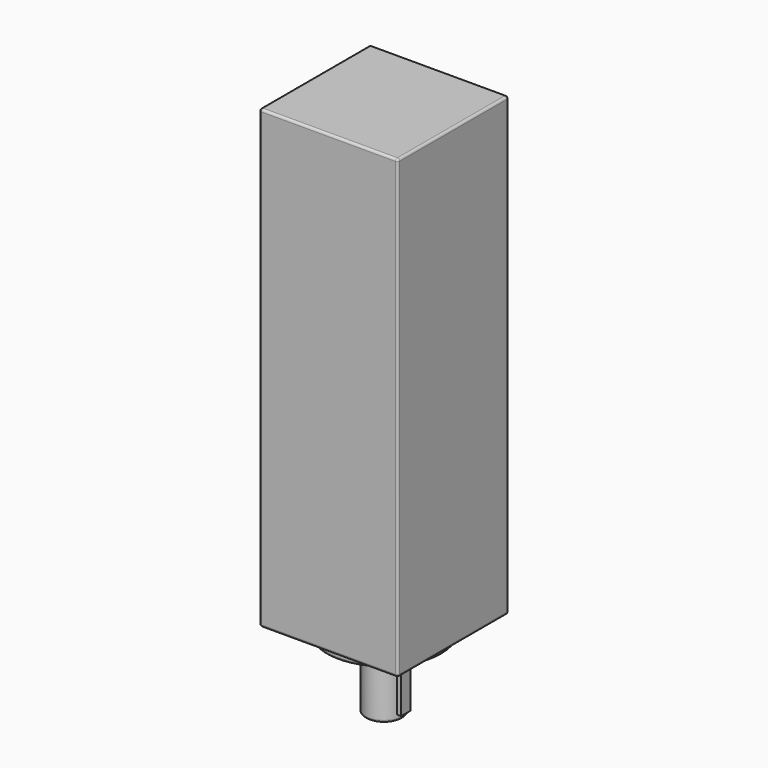
from build123d import *

# Parameters (mm, degrees)
F0_W      = 60
F0_H      = 60
F1_DEPTH  = 202.5
F2_R      = 8
F3_DEPTH  = 30
F5_D      = 5
F5_DEPTH  = 12
F5_TIP    = 1.5021515476
F7_W      = 3
F7_H      = 5
F8_DEPTH  = 25
F9_W      = 66.6528567672
F9_H      = 63.3320808411
F9_W_2    = 60
F9_H_2    = 60
F9_R      = 25
F10_DEPTH = 5
F11_R     = 1


with BuildPart() as f1:
    # F0 (on Top) → F1 (new body)
    with BuildSketch(Plane.XY):
        Rectangle(F0_W, F0_H)
    extrude(amount=F1_DEPTH)

    # F2 (on face) → F3 (join)
    with BuildSketch(Plane(origin=(0, 0, 0), x_dir=(1, 0, 0), z_dir=(0, 0, -1))):
        Circle(F2_R)
    extrude(amount=F3_DEPTH)

    # F5
    with Locations(Plane(origin=(0, 0, -30), x_dir=(1, 0, 0), z_dir=(0, 0, -1))):
        with Locations((0, 0)):
            Hole(F5_D / 2, depth=F5_DEPTH)
            with Locations((0, 0, -(F5_DEPTH + F5_TIP / 2))):  # 118° drill point
                Cone(0, F5_D / 2, F5_TIP, mode=Mode.SUBTRACT)

    # F7 (on offset) → F8 (join)
    with BuildSketch(Plane(origin=(0, 0, -27.5), x_dir=(1, 0, 0), z_dir=(0, 0, -1))):
        with Locations((7.9153832048, 0)):
            Rectangle(F7_W, F7_H)
    extrude(amount=-F8_DEPTH)

    # F9 (on face) → F10 (cut)
    with BuildSketch(Plane(origin=(0, 0, 0), x_dir=(1, 0, 0), z_dir=(0, 0, -1))):
        Rectangle(F9_W, F9_H)
        Rectangle(F9_W_2, F9_H_2, mode=Mode.SUBTRACT)
        Rectangle(F9_W_2, F9_H_2)
        Circle(F9_R, mode=Mode.SUBTRACT)
    extrude(amount=-F10_DEPTH, mode=Mode.SUBTRACT)

    # F11
    f11_edges = [f1.edges().sort_by_distance(p)[0] for p in [
        (0, 30, 5),
        (-30, 0, 5),
        (0, -30, 5),
        (30, 0, 5),
        (-25, 0, 5),
        (-25, 0, 0),
        (-8, 0, 0),
        (-8, 0, -30),
        (-2.5, 0, -30),
        (-30, -30, 103.75),
        (-30, 0, 202.5),
        (-30, 30, 103.75),
        (30, -30, 103.75),
        (0, -30, 202.5),
        (0, 30, 202.5),
        (30, 30, 103.75),
        (30, 0, 202.5),
    ]]
    fillet(f11_edges, radius=F11_R)


solid = f1.part
